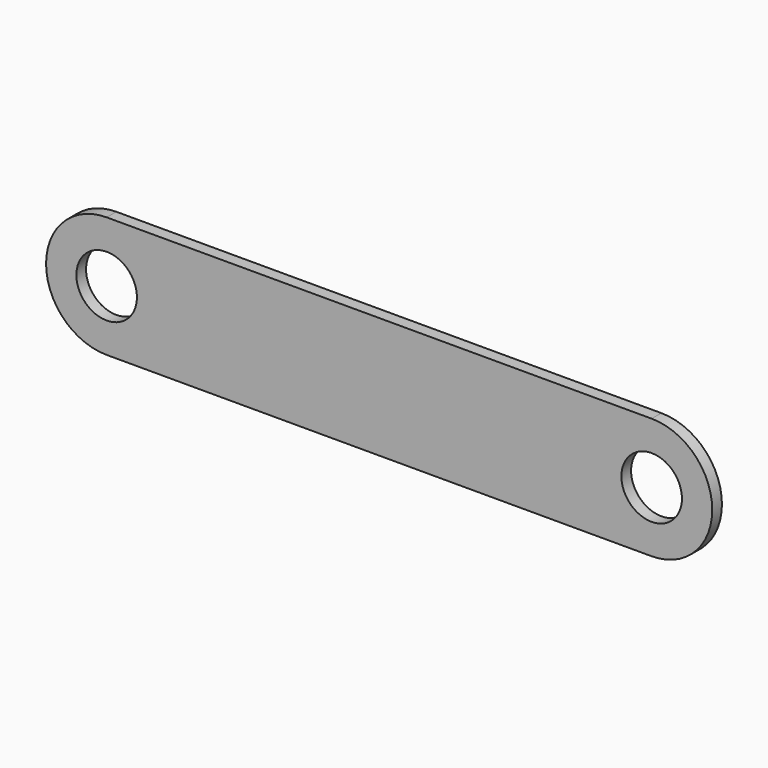
from build123d import *

# Parameters (mm, degrees)
F0_R     = 2.5
F1_DEPTH = 0.5


with BuildPart() as f1:
    # F0 (on Front) → F1 (new body, symmetric)
    with BuildSketch(Plane.XZ):
        with BuildLine():
            Line((0, -5), (45, -5))
            ThreePointArc((45, -5), (50, 0), (45, 5))
            Line((45, 5), (0, 5))
            ThreePointArc((0, 5), (-5, 0), (0, -5))
        make_face()
        Circle(F0_R, mode=Mode.SUBTRACT)
        with Locations((45, 0)):
            Circle(F0_R, mode=Mode.SUBTRACT)
    extrude(amount=F1_DEPTH, both=True)


solid = f1.part
